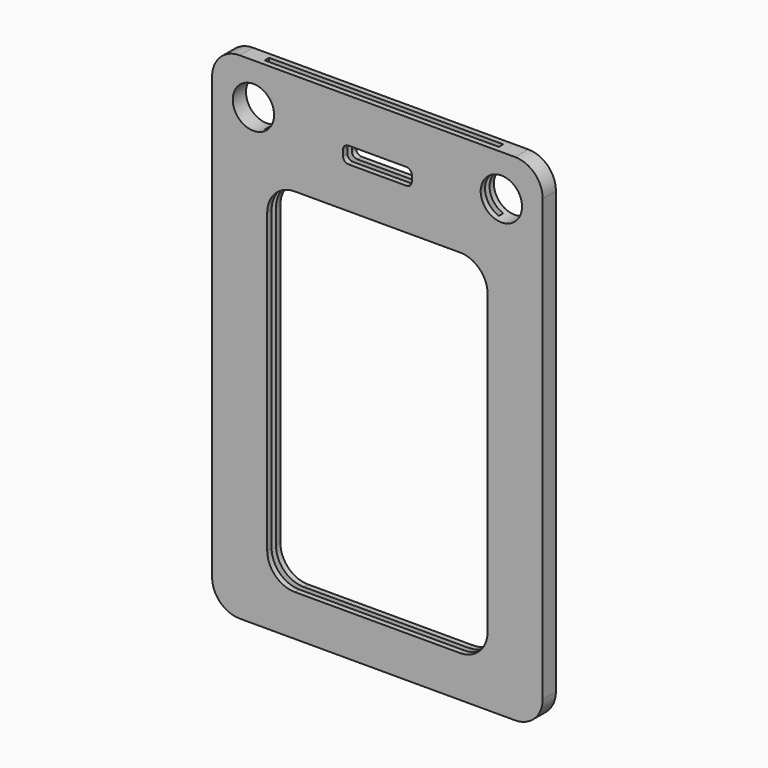
from build123d import *

# Parameters (mm, degrees)
F1_DEPTH  = 1.905
F3_DEPTH  = 3.811
F4_W      = 53.975
F4_H      = 107.315
F5_DEPTH  = 0.635
F6_W      = 15.875
F6_H      = 3.81
F7_DEPTH  = 3.811
F8_R      = 1.27
F9_R      = 4.7625
F10_DEPTH = 3.811


with BuildPart() as f1:
    # F0 (on Front) → F1 (new body, symmetric)
    with BuildSketch(Plane.XZ):
        with BuildLine():
            Line((-31.75, -57.15), (31.75, -57.15))
            ThreePointArc((31.75, -57.15), (36.240128, -55.290128), (38.1, -50.8))
            Line((38.1, -50.8), (38.1, 50.8))
            ThreePointArc((38.1, 50.8), (36.240128, 55.290128), (31.75, 57.15))
            Line((31.75, 57.15), (-31.75, 57.15))
            ThreePointArc((-31.75, 57.15), (-36.240128, 55.290128), (-38.1, 50.8))
            Line((-38.1, 50.8), (-38.1, -50.8))
            ThreePointArc((-38.1, -50.8), (-36.240128, -55.290128), (-31.75, -57.15))
        make_face()
    extrude(amount=F1_DEPTH, both=True)

    # F2 (on face) → F3 (cut, through all)
    with BuildSketch(Plane.XZ.offset(1.905)):
        with BuildLine():
            Line((19.05, 33.655), (-19.05, 33.655))
            ThreePointArc((-19.05, 33.655), (-23.540128, 31.795128), (-25.4, 27.305))
            Line((-25.4, 27.305), (-25.4, -41.275))
            ThreePointArc((-25.4, -41.275), (-23.540128, -45.765128), (-19.05, -47.625))
            Line((-19.05, -47.625), (19.05, -47.625))
            ThreePointArc((19.05, -47.625), (23.540128, -45.765128), (25.4, -41.275))
            Line((25.4, -41.275), (25.4, 27.305))
            ThreePointArc((25.4, 27.305), (23.540128, 31.795128), (19.05, 33.655))
        make_face()
    extrude(amount=-F3_DEPTH, mode=Mode.SUBTRACT)

    # F4 (on Front) → F5 (cut, symmetric)
    with BuildSketch(Plane.XZ):
        with Locations((0, 3.4925)):
            Rectangle(F4_W, F4_H)
    extrude(amount=F5_DEPTH, both=True, mode=Mode.SUBTRACT)

    # F6 (on face) → F7 (cut, through all)
    with BuildSketch(Plane.XZ.offset(1.905)):
        with Locations((0, 45.085)):
            Rectangle(F6_W, F6_H)
    extrude(amount=-F7_DEPTH, mode=Mode.SUBTRACT)

    # F8
    f8_edges = [f1.edges().sort_by_distance(p)[0] for p in [
        (-7.9375, 1.27, 46.99),
        (-7.9375, -1.27, 46.99),
        (7.9375, 1.27, 46.99),
        (7.9375, -1.27, 46.99),
        (7.9375, 1.27, 43.18),
        (7.9375, -1.27, 43.18),
        (-7.9375, 1.27, 43.18),
        (-7.9375, -1.27, 43.18),
    ]]
    fillet(f8_edges, radius=F8_R)

    # F9 (on face) → F10 (cut, through all)
    with BuildSketch(Plane.XZ.offset(1.905)):
        with Locations((-28.575, 47.625)):
            Circle(F9_R)
        with Locations((28.575, 47.625)):
            Circle(F9_R)
    extrude(amount=-F10_DEPTH, mode=Mode.SUBTRACT)


solid = f1.part
